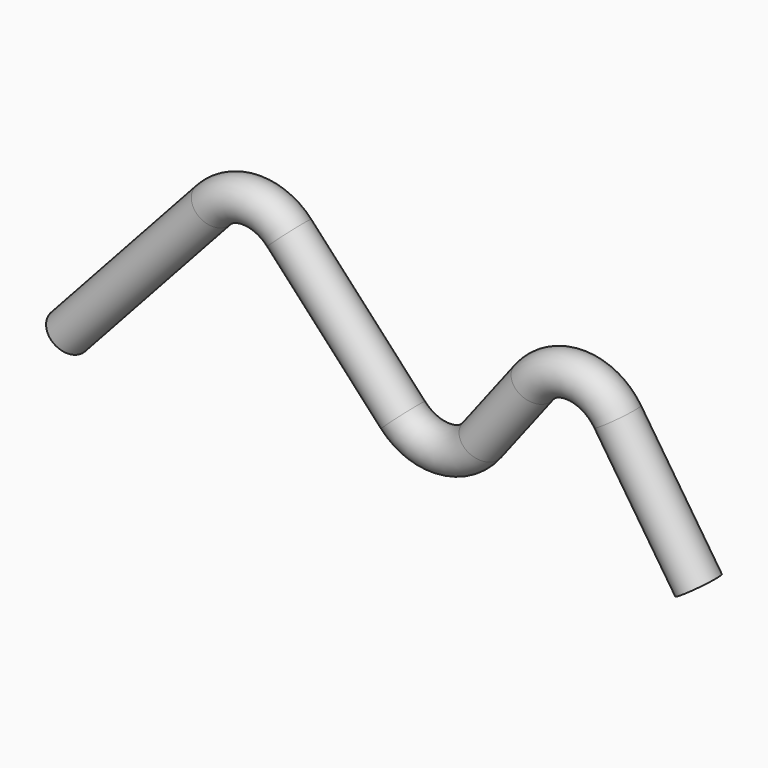
from build123d import *

# Parameters (mm, degrees)
F2_R   = 39.2151762462
F2_R_2 = 28.8059815355


with BuildPart() as f3:
    # F3: sweep along a path in F0
    with BuildLine(Plane.XZ) as f3_path:
        Line((-719.5516228676, -179.9883693457), (-437.7762410733, 128.2787399033))
        ThreePointArc((-437.7762410733, 128.2787399033), (-364.1942794588, 160.8105350061), (-290.4640128191, 128.6162723358))
        Line((-290.4640128191, 128.6162723358), (-69.6818247618, -110.7116367356))
        ThreePointArc((-69.6818247618, -110.7116367356), (8.3236890435, -142.8046634751), (83.1244208225, -103.8216790503))
        Line((83.1244208225, -103.8216790503), (184.0787292704, 27.6093990153))
        ThreePointArc((184.0787292704, 27.6093990153), (266.8922170539, 66.6323191878), (346.7653781049, 21.8982136153))
        Line((346.7653781049, 21.8982136153), (503.6373805534, -215.0438748717))
    # F2 (on line) → F3 (sweep)
    with BuildSketch(Plane(origin=(-417.1664648881, 0, -456.3872804919), x_dir=(0.7381108825, 0, -0.674679424), z_dir=(0.674679424, 0, 0.7381108825))):
        with Locations((-409.6744339706, 0)):
            Circle(F2_R)
        with Locations((-409.6744339706, 0)):
            Circle(F2_R_2, mode=Mode.SUBTRACT)
    sweep(path=f3_path.line)


solid = f3.part
